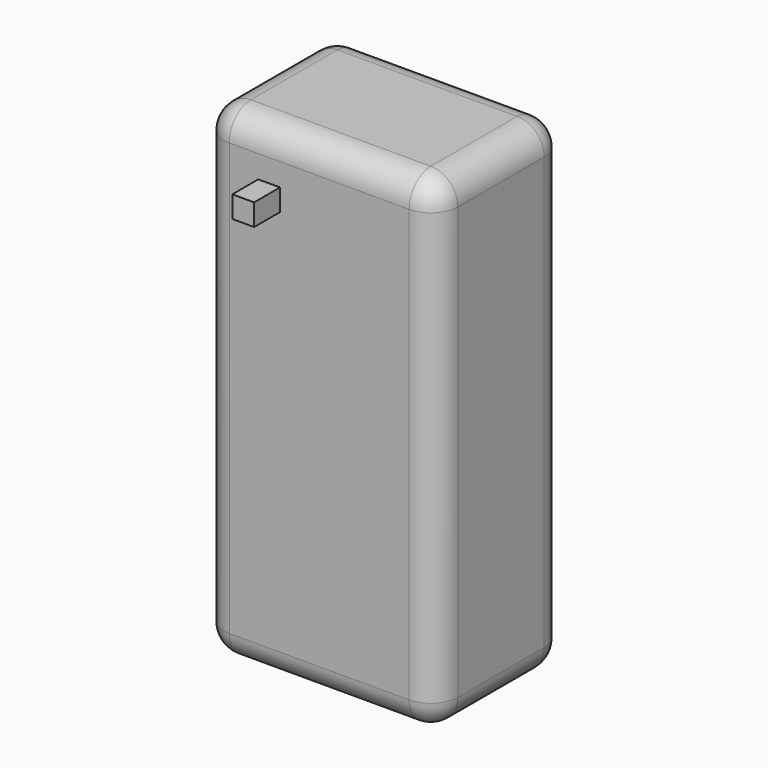
from build123d import *

# Parameters (mm, degrees)
F0_W     = 33.02
F0_H     = 68.58
F1_DEPTH = 22.86
F2_R     = 3.81
F3_W     = 3.073085
F3_H     = 3.073089
F4_DEPTH = 4.572


with BuildPart() as f1:
    # F0 (on Front) → F1 (new body)
    with BuildSketch(Plane.XZ):
        with Locations((16.51, 34.29)):
            Rectangle(F0_W, F0_H)
    extrude(amount=F1_DEPTH)

    # F2
    f2_edges = [f1.edges().sort_by_distance(p)[0] for p in [
        (33.02, -22.86, 34.29),
        (33.02, -11.43, 68.58),
        (16.51, -22.86, 68.58),
        (0, -22.86, 34.29),
        (16.51, -22.86, 0),
        (33.02, -11.43, 0),
        (33.02, 0, 34.29),
        (16.51, 0, 0),
        (0, 0, 34.29),
        (0, -11.43, 68.58),
        (0, -11.43, 0),
        (16.51, 0, 68.58),
    ]]
    fillet(f2_edges, radius=F2_R)

    # F3 (on face) → F4 (join)
    with BuildSketch(Plane.XZ.offset(22.86)):
        with Locations((9.438765, 60.034938)):
            Rectangle(F3_W, F3_H)
    extrude(amount=F4_DEPTH)


solid = f1.part
